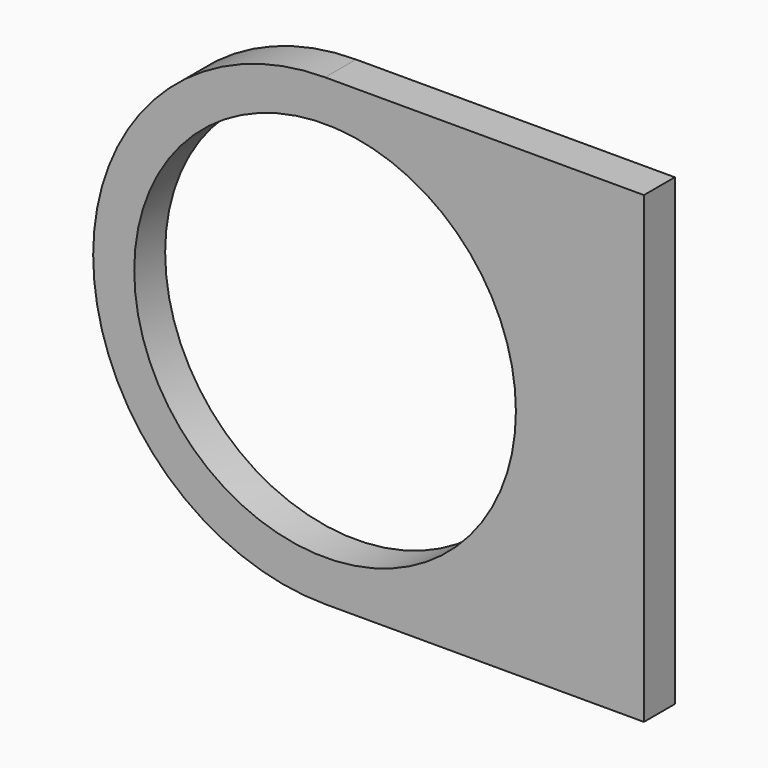
from build123d import *

# Parameters (mm, degrees)
SKETCH_R  = 9.875
PAD_DEPTH = 1


with BuildPart() as part:
    # Sketch → Pad (new body, symmetric)
    with BuildSketch(Plane.XZ):
        with BuildLine():
            Line((-15, -12), (1.5, -12))
            Line((1.5, 12), (1.5, -12))
            Line((1.5, 12), (-15, 12))
            ThreePointArc((-15, 12), (-27, 0), (-15, -12))
        make_face()
        with Locations((-15, 0)):
            Circle(SKETCH_R, mode=Mode.SUBTRACT)
    extrude(amount=PAD_DEPTH, both=True)


solid = part.part
